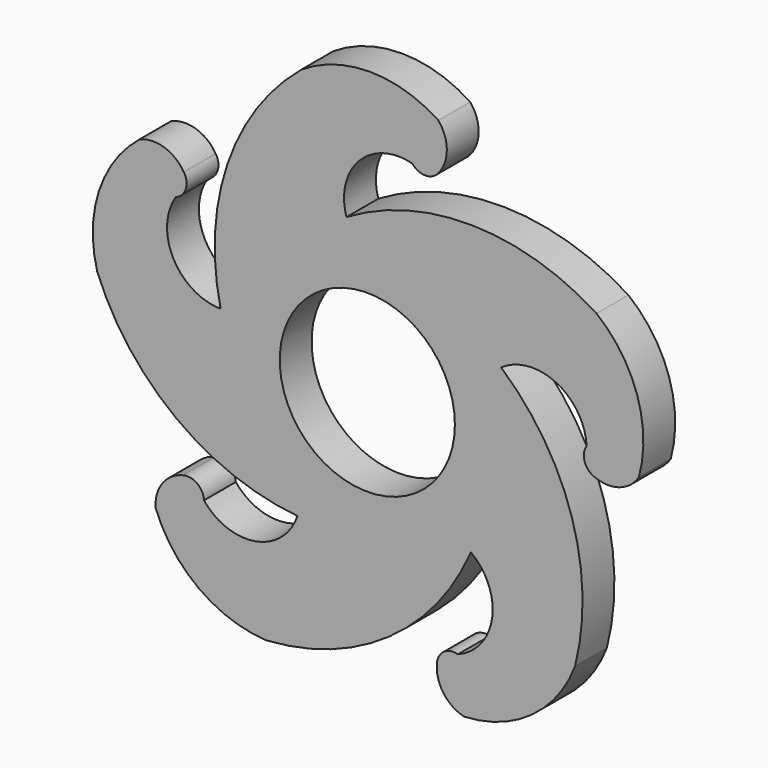
from build123d import *

# Parameters (mm, degrees)
F0_R     = 11
F1_DEPTH = 5
F2_COUNT = 5


with BuildPart() as f1:
    # F0 (on Front) → F1 (new body)
    with BuildSketch(Plane.XZ):
        with BuildLine():
            ThreePointArc((-17.5, 0), (0, -17.5), (17.5, 0))
            ThreePointArc((17.5, 0), (11.594757, 13.107693), (-2.135613, 17.369201))
            ThreePointArc((-2.135613, 17.369201), (-13.107693, 11.594757), (-17.5, 0))
        make_face()
        Circle(F0_R, mode=Mode.SUBTRACT)
        with BuildLine():
            ThreePointArc((-17.5, 0), (-13.107693, 11.594757), (-2.135613, 17.369201))
            ThreePointArc((-2.135613, 17.369201), (-1.43806, 24.799886), (5.651377, 27.132593))
            ThreePointArc((5.651377, 27.132593), (7.284383, 26.340383), (8.91739, 27.132593))
            ThreePointArc((8.91739, 27.132593), (9.989369, 30.052606), (8.91739, 32.972619))
            ThreePointArc((8.91739, 32.972619), (0.308249, 35.552212), (-8.300892, 32.972619))
            ThreePointArc((-8.300892, 32.972619), (-18.068584, 17.92818), (-17.5, 0))
        make_face()
    extrude(amount=F1_DEPTH)

    # F2: F1 ×5 about axis
    f2_axis = Axis((0, -5, 0), (0, -1, 0))


with BuildPart() as f1_1:
    add(f1.part)
    for i in range(1, F2_COUNT):
        add(f1.part.rotate(f2_axis, i * 360 / F2_COUNT))


solid = f1_1.part
